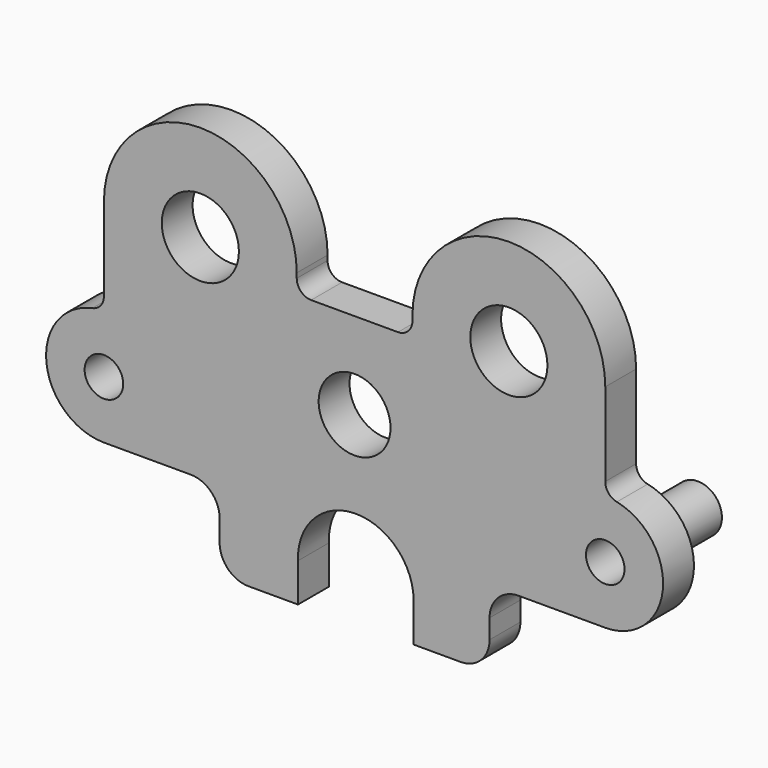
from build123d import *

# Parameters (mm, degrees)
F0_R     = 7.9375
F0_R_2   = 11.828435
F0_R_3   = 12.7
F0_R_4   = 6.35
F1_DEPTH = 12.7
F2_DEPTH = 25.4
F3_DEPTH = 25.4


with BuildPart() as f1:
    # F0 (on Front) → F1 (new body)
    with BuildSketch(Plane.XZ):
        with BuildLine():
            Line((82.55, 7.45639), (82.55, 34.925))
            ThreePointArc((82.55, 34.925), (50.8, 66.675), (19.05, 34.925))
            Line((19.05, 34.925), (19.05, 33.3375))
            ThreePointArc((19.05, 33.3375), (17.655096, 29.969904), (14.2875, 28.575))
            Line((14.2875, 28.575), (-14.2875, 28.575))
            ThreePointArc((-14.2875, 28.575), (-17.655096, 29.969904), (-19.05, 33.3375))
            Line((-19.05, 33.3375), (-19.05, 34.925))
            ThreePointArc((-19.05, 34.925), (-50.8, 66.675), (-82.55, 34.925))
            Line((-82.55, 34.925), (-82.55, 7.45639))
            ThreePointArc((-82.55, 7.45639), (-83.623483, 4.44432), (-86.36, 2.790112))
            ThreePointArc((-86.36, 2.790112), (-101.503534, -17.789696), (-82.55, -34.925))
            Line((-82.55, -34.925), (-53.975, -34.925))
            ThreePointArc((-53.975, -34.925), (-47.239808, -37.714808), (-44.45, -44.45))
            Line((-44.45, -44.45), (-44.45, -51.575074))
            ThreePointArc((-44.45, -51.575074), (-41.660192, -58.310266), (-34.925, -61.100074))
            Line((-34.925, -61.100074), (-18.634955, -61.100074))
            Line((-18.634955, -61.100074), (-18.634955, -48.400074))
            ThreePointArc((-18.634955, -48.400074), (0.011654, -28.578944), (19.449271, -47.625))
            Line((19.449271, -47.625), (19.449271, -60.325))
            Line((19.449271, -60.325), (34.925, -60.325))
            ThreePointArc((34.925, -60.325), (41.660192, -57.535192), (44.45, -50.8))
            Line((44.45, -50.8), (44.45, -44.45))
            ThreePointArc((44.45, -44.45), (47.239808, -37.714808), (53.975, -34.925))
            Line((53.975, -34.925), (82.55, -34.925))
            ThreePointArc((82.55, -34.925), (101.503534, -17.789696), (86.36, 2.790112))
            ThreePointArc((86.36, 2.790112), (83.623483, 4.44432), (82.55, 7.45639))
        make_face()
        with Locations((-82.55, -15.875)):
            Circle(F0_R, mode=Mode.SUBTRACT)
        Circle(F0_R_2, mode=Mode.SUBTRACT)
        with Locations((82.55, -15.875)):
            Circle(F0_R, mode=Mode.SUBTRACT)
        with Locations((-50.8, 34.925)):
            Circle(F0_R_3, mode=Mode.SUBTRACT)
        with Locations((50.8, 34.925)):
            Circle(F0_R_3, mode=Mode.SUBTRACT)
        with Locations((-82.55, -15.875)):
            Circle(F0_R)
        with Locations((-82.55, -15.875)):
            Circle(F0_R_4, mode=Mode.SUBTRACT)
        with Locations((82.55, -15.875)):
            Circle(F0_R)
        with Locations((82.55, -15.875)):
            Circle(F0_R_4, mode=Mode.SUBTRACT)
    extrude(amount=F1_DEPTH)

    # F0 (on Front) → F2 (join)
    with BuildSketch(Plane.XZ):
        with Locations((82.55, -15.875)):
            Circle(F0_R)
        with Locations((82.55, -15.875)):
            Circle(F0_R_4, mode=Mode.SUBTRACT)
    extrude(amount=-F2_DEPTH)

    # F0 (on Front) → F3 (join)
    with BuildSketch(Plane.XZ):
        with Locations((-82.55, -15.875)):
            Circle(F0_R)
        with Locations((-82.55, -15.875)):
            Circle(F0_R_4, mode=Mode.SUBTRACT)
    extrude(amount=-F3_DEPTH)


solid = f1.part
